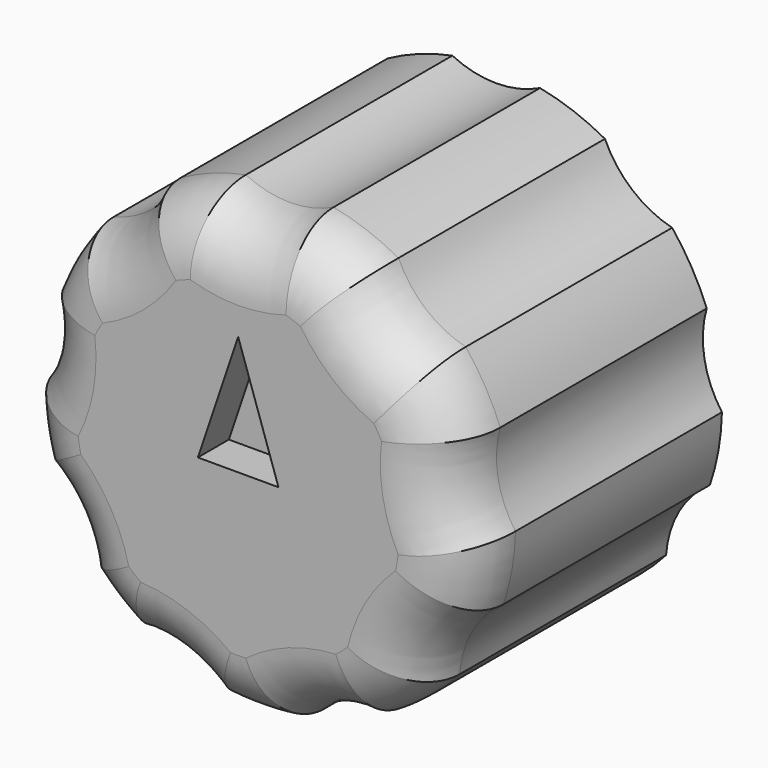
from build123d import *

# Parameters (mm, degrees)
F1_DEPTH = 25
F2_DEPTH = 10
F3_R     = 5
F5_DEPTH = 3


with BuildPart() as f1:
    # F0 (on Front) → F1 (new body)
    with BuildSketch(Plane.XZ):
        with BuildLine():
            ThreePointArc((17.496143, -0.367408), (16.137561, 2.845487), (16.315335, 6.329284))
            ThreePointArc((16.315335, 6.329284), (15.155445, 8.75), (13.638989, 10.964853))
            ThreePointArc((13.638989, 10.964853), (10.533045, 12.552794), (8.429886, 15.335808))
            ThreePointArc((8.429886, 15.335808), (5.985353, 16.444621), (3.4, 17.166537))
            ThreePointArc((3.4, 17.166537), (0, 16.386509), (-3.4, 17.166537))
            ThreePointArc((-3.4, 17.166537), (-5.985353, 16.444621), (-8.429886, 15.335808))
            ThreePointArc((-8.429886, 15.335808), (-10.533045, 12.552794), (-13.638989, 10.964853))
            ThreePointArc((-13.638989, 10.964853), (-15.155445, 8.75), (-16.315335, 6.329284))
            ThreePointArc((-16.315335, 6.329284), (-16.137561, 2.845487), (-17.496143, -0.367408))
            ThreePointArc((-17.496143, -0.367408), (-17.234136, -3.038843), (-16.566657, -5.638782))
            ThreePointArc((-16.566657, -5.638782), (-14.191133, -8.193254), (-13.166657, -11.527755))
            ThreePointArc((-13.166657, -11.527755), (-11.248783, -13.405778), (-9.066256, -14.9684))
            ThreePointArc((-9.066256, -14.9684), (-5.604516, -15.398281), (-2.676347, -17.294137))
            ThreePointArc((-2.676347, -17.294137), (0, -17.5), (2.676347, -17.294137))
            ThreePointArc((2.676347, -17.294137), (5.604516, -15.398281), (9.066256, -14.9684))
            ThreePointArc((9.066256, -14.9684), (11.248783, -13.405778), (13.166657, -11.527755))
            ThreePointArc((13.166657, -11.527755), (14.191133, -8.193254), (16.566657, -5.638782))
            ThreePointArc((16.566657, -5.638782), (17.234136, -3.038843), (17.496143, -0.367408))
        make_face()
        with BuildLine():
            ThreePointArc((4, 3), (4.743416, 1.581139), (5, 0))
            ThreePointArc((5, 0), (-1.581139, -4.743416), (-4, 3))
            ThreePointArc((-4, 3), (0, 5), (4, 3))
        make_face(mode=Mode.SUBTRACT)
        with BuildLine():
            ThreePointArc((-4, 3), (-1.581139, -4.743416), (5, 0))
            ThreePointArc((5, 0), (4.743416, 1.581139), (4, 3))
            Line((4, 3), (-4, 3))
        make_face()
        with BuildLine():
            Line((-4, 3), (4, 3))
            ThreePointArc((4, 3), (0, 5), (-4, 3))
        make_face()
    extrude(amount=F1_DEPTH)

    # F0 (on Front) → F2 (cut)
    with BuildSketch(Plane.XZ):
        with BuildLine():
            ThreePointArc((-4, 3), (-1.581139, -4.743416), (5, 0))
            ThreePointArc((5, 0), (4.743416, 1.581139), (4, 3))
            Line((4, 3), (-4, 3))
        make_face()
    extrude(amount=F2_DEPTH, mode=Mode.SUBTRACT)

    # F3
    f3_edges = [f1.edges().sort_by_distance(p)[0] for p in [
        (16.137561, -25, 2.845487),
        (15.155445, -25, 8.75),
        (10.533045, -25, 12.552794),
        (5.985353, -25, 16.444621),
        (0, -25, 16.386509),
        (-5.985353, -25, 16.444621),
        (-10.533045, -25, 12.552794),
        (-15.155445, -25, 8.75),
        (-16.137561, -25, 2.845487),
        (-17.234136, -25, -3.038843),
        (-14.191133, -25, -8.193254),
        (-11.248783, -25, -13.405778),
        (-5.604516, -25, -15.398281),
        (0, -25, -17.5),
        (5.604516, -25, -15.398281),
        (11.248783, -25, -13.405778),
        (14.191133, -25, -8.193254),
        (17.234136, -25, -3.038843),
    ]]
    fillet(f3_edges, radius=F3_R)

    # F4 (on face) → F5 (cut)
    with BuildSketch(Plane.XZ.offset(25)):
        Polygon((-3.125, 0), (0, 0), (3.125, 0), (0, 9.25), align=None)
    extrude(amount=-F5_DEPTH, mode=Mode.SUBTRACT)


solid = f1.part
